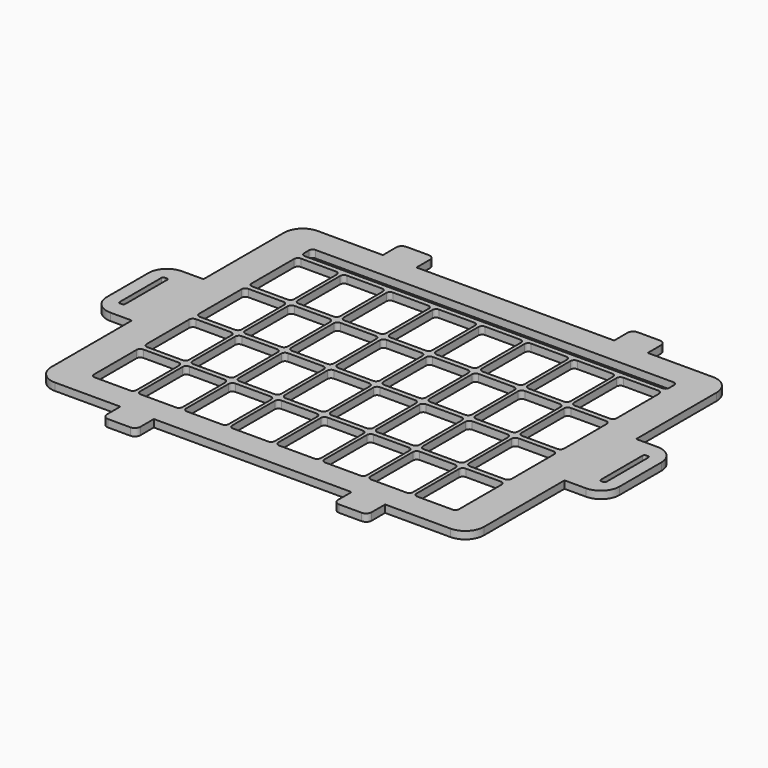
from build123d import *

# Parameters (mm, degrees)
F0_W     = 3
F0_H     = 30
F1_DEPTH = 4
F2_R     = 1
F3_R     = 1
F4_R     = 1
F5_R     = 1
F7_DEPTH = 4


with BuildPart() as f1:
    # F0 (on Top) → F1 (new body)
    with BuildSketch(Plane.XY):
        with BuildLine():
            Line((71, -88), (106, -88))
            ThreePointArc((106, -88), (113.071068, -85.071068), (116, -78))
            Line((116, -78), (116, -24))
            Line((116, -24), (127.5, -24))
            ThreePointArc((127.5, -24), (134.571068, -21.071068), (137.5, -14))
            Line((137.5, -14), (137.5, 14))
            ThreePointArc((137.5, 14), (134.571068, 21.071068), (127.5, 24))
            Line((127.5, 24), (116, 24))
            Line((116, 24), (116, 78))
            ThreePointArc((116, 78), (113.071068, 85.071068), (106, 88))
            Line((106, 88), (71, 88))
            Line((71, 88), (71, 97))
            ThreePointArc((71, 97), (70.12132, 99.12132), (68, 100))
            Line((68, 100), (56, 100))
            ThreePointArc((56, 100), (53.87868, 99.12132), (53, 97))
            Line((53, 97), (53, 88))
            Line((53, 88), (-53, 88))
            Line((-53, 88), (-53, 97))
            ThreePointArc((-53, 97), (-53.87868, 99.12132), (-56, 100))
            Line((-56, 100), (-68, 100))
            ThreePointArc((-68, 100), (-70.12132, 99.12132), (-71, 97))
            Line((-71, 97), (-71, 88))
            Line((-71, 88), (-106, 88))
            ThreePointArc((-106, 88), (-113.071068, 85.071068), (-116, 78))
            Line((-116, 78), (-116, 24))
            Line((-116, 24), (-127.5, 24))
            ThreePointArc((-127.5, 24), (-134.571068, 21.071068), (-137.5, 14))
            Line((-137.5, 14), (-137.5, -14))
            ThreePointArc((-137.5, -14), (-134.571068, -21.071068), (-127.5, -24))
            Line((-127.5, -24), (-116, -24))
            Line((-116, -24), (-116, -78))
            ThreePointArc((-116, -78), (-113.071068, -85.071068), (-106, -88))
            Line((-106, -88), (-71, -88))
            Line((-71, -88), (-71, -97))
            ThreePointArc((-71, -97), (-70.12132, -99.12132), (-68, -100))
            Line((-68, -100), (-56, -100))
            ThreePointArc((-56, -100), (-53.87868, -99.12132), (-53, -97))
            Line((-53, -97), (-53, -88))
            Line((-53, -88), (53, -88))
            Line((53, -88), (53, -97))
            ThreePointArc((53, -97), (53.87868, -99.12132), (56, -100))
            Line((56, -100), (68, -100))
            ThreePointArc((68, -100), (70.12132, -99.12132), (71, -97))
            Line((71, -97), (71, -88))
        make_face()
        Polygon((-127.5, 15), (-127.5, 0), (-127.5, -15), (-130.5, -15), (-130.5, 0), (-130.5, 15), align=None, mode=Mode.SUBTRACT)
        with Locations((129, 0)):
            Rectangle(F0_W, F0_H, mode=Mode.SUBTRACT)
    extrude(amount=F1_DEPTH)

    # F2
    f2_edges = [f1.edges().sort_by_distance(p)[0] for p in [
        (127.5, -15, 2),
        (130.5, -15, 2),
    ]]
    fillet(f2_edges, radius=F2_R)

    # F3
    f3_edges = [f1.edges().sort_by_distance(p)[0] for p in [
        (127.5, 15, 2),
        (130.5, 15, 2),
    ]]
    fillet(f3_edges, radius=F3_R)

    # F4
    f4_edges = [f1.edges().sort_by_distance(p)[0] for p in [
        (-130.5, 15, 2),
        (-127.5, 15, 2),
    ]]
    fillet(f4_edges, radius=F4_R)

    # F5
    f5_edges = [f1.edges().sort_by_distance(p)[0] for p in [
        (-130.5, -15, 2),
        (-127.5, -15, 2),
    ]]
    fillet(f5_edges, radius=F5_R)

    # F6 (on face) → F7 (cut)
    with BuildSketch(Plane.XY.offset(4)):
        with BuildLine():
            ThreePointArc((97.85, 72), (97.264214, 73.414214), (95.85, 74))
            Line((95.85, 74), (-95.85, 74))
            ThreePointArc((-95.85, 74), (-97.264214, 73.414214), (-97.85, 72))
            Line((-97.85, 72), (-97.85, 68.8))
            ThreePointArc((-97.85, 68.8), (-97.264214, 67.385786), (-95.85, 66.8))
            Line((-95.85, 66.8), (95.85, 66.8))
            ThreePointArc((95.85, 66.8), (97.264214, 67.385786), (97.85, 68.8))
            Line((97.85, 68.8), (97.85, 72))
        make_face()
        with BuildLine():
            ThreePointArc((-97.85, -72), (-97.264214, -73.414214), (-95.85, -74))
            Line((-95.85, -74), (-77.05, -74))
            ThreePointArc((-77.05, -74), (-75.635786, -73.414214), (-75.05, -72))
            Line((-75.05, -72), (-75.05, -43.5))
            ThreePointArc((-75.05, -43.5), (-75.635786, -42.085786), (-77.05, -41.5))
            Line((-77.05, -41.5), (-95.85, -41.5))
            ThreePointArc((-95.85, -41.5), (-97.264214, -42.085786), (-97.85, -43.5))
            Line((-97.85, -43.5), (-97.85, -72))
        make_face()
        with BuildLine():
            ThreePointArc((-73.15, -72), (-72.564214, -73.414214), (-71.15, -74))
            Line((-71.15, -74), (-52.35, -74))
            ThreePointArc((-52.35, -74), (-50.935786, -73.414214), (-50.35, -72))
            Line((-50.35, -72), (-50.35, -43.5))
            ThreePointArc((-50.35, -43.5), (-50.935786, -42.085786), (-52.35, -41.5))
            Line((-52.35, -41.5), (-71.15, -41.5))
            ThreePointArc((-71.15, -41.5), (-72.564214, -42.085786), (-73.15, -43.5))
            Line((-73.15, -43.5), (-73.15, -72))
        make_face()
        with BuildLine():
            ThreePointArc((-48.45, -72), (-47.864214, -73.414214), (-46.45, -74))
            Line((-46.45, -74), (-27.65, -74))
            ThreePointArc((-27.65, -74), (-26.235786, -73.414214), (-25.65, -72))
            Line((-25.65, -72), (-25.65, -43.5))
            ThreePointArc((-25.65, -43.5), (-26.235786, -42.085786), (-27.65, -41.5))
            Line((-27.65, -41.5), (-46.45, -41.5))
            ThreePointArc((-46.45, -41.5), (-47.864214, -42.085786), (-48.45, -43.5))
            Line((-48.45, -43.5), (-48.45, -72))
        make_face()
        with BuildLine():
            ThreePointArc((-23.75, -72), (-23.164214, -73.414214), (-21.75, -74))
            Line((-21.75, -74), (-2.95, -74))
            ThreePointArc((-2.95, -74), (-1.535786, -73.414214), (-0.95, -72))
            Line((-0.95, -72), (-0.95, -43.5))
            ThreePointArc((-0.95, -43.5), (-1.535786, -42.085786), (-2.95, -41.5))
            Line((-2.95, -41.5), (-21.75, -41.5))
            ThreePointArc((-21.75, -41.5), (-23.164214, -42.085786), (-23.75, -43.5))
            Line((-23.75, -43.5), (-23.75, -72))
        make_face()
        with BuildLine():
            ThreePointArc((0.95, -72), (1.535786, -73.414214), (2.95, -74))
            Line((2.95, -74), (21.75, -74))
            ThreePointArc((21.75, -74), (23.164214, -73.414214), (23.75, -72))
            Line((23.75, -72), (23.75, -43.5))
            ThreePointArc((23.75, -43.5), (23.164214, -42.085786), (21.75, -41.5))
            Line((21.75, -41.5), (2.95, -41.5))
            ThreePointArc((2.95, -41.5), (1.535786, -42.085786), (0.95, -43.5))
            Line((0.95, -43.5), (0.95, -72))
        make_face()
        with BuildLine():
            ThreePointArc((25.65, -72), (26.235786, -73.414214), (27.65, -74))
            Line((27.65, -74), (46.45, -74))
            ThreePointArc((46.45, -74), (47.864214, -73.414214), (48.45, -72))
            Line((48.45, -72), (48.45, -43.5))
            ThreePointArc((48.45, -43.5), (47.864214, -42.085786), (46.45, -41.5))
            Line((46.45, -41.5), (27.65, -41.5))
            ThreePointArc((27.65, -41.5), (26.235786, -42.085786), (25.65, -43.5))
            Line((25.65, -43.5), (25.65, -72))
        make_face()
        with BuildLine():
            ThreePointArc((50.35, -72), (50.935786, -73.414214), (52.35, -74))
            Line((52.35, -74), (71.15, -74))
            ThreePointArc((71.15, -74), (72.564214, -73.414214), (73.15, -72))
            Line((73.15, -72), (73.15, -43.5))
            ThreePointArc((73.15, -43.5), (72.564214, -42.085786), (71.15, -41.5))
            Line((71.15, -41.5), (52.35, -41.5))
            ThreePointArc((52.35, -41.5), (50.935786, -42.085786), (50.35, -43.5))
            Line((50.35, -43.5), (50.35, -72))
        make_face()
        with BuildLine():
            ThreePointArc((75.05, -72), (75.635786, -73.414214), (77.05, -74))
            Line((77.05, -74), (95.85, -74))
            ThreePointArc((95.85, -74), (97.264214, -73.414214), (97.85, -72))
            Line((97.85, -72), (97.85, -43.5))
            ThreePointArc((97.85, -43.5), (97.264214, -42.085786), (95.85, -41.5))
            Line((95.85, -41.5), (77.05, -41.5))
            ThreePointArc((77.05, -41.5), (75.635786, -42.085786), (75.05, -43.5))
            Line((75.05, -43.5), (75.05, -72))
        make_face()
        with BuildLine():
            ThreePointArc((-27.65, -38.8), (-26.235786, -38.214214), (-25.65, -36.8))
            Line((-25.65, -36.8), (-25.65, -8.3))
            ThreePointArc((-25.65, -8.3), (-26.235786, -6.885786), (-27.65, -6.3))
            Line((-27.65, -6.3), (-46.45, -6.3))
            ThreePointArc((-46.45, -6.3), (-47.864214, -6.885786), (-48.45, -8.3))
            Line((-48.45, -8.3), (-48.45, -36.8))
            ThreePointArc((-48.45, -36.8), (-47.864214, -38.214214), (-46.45, -38.8))
            Line((-46.45, -38.8), (-27.65, -38.8))
        make_face()
        with BuildLine():
            ThreePointArc((-77.05, -38.8), (-75.635786, -38.214214), (-75.05, -36.8))
            Line((-75.05, -36.8), (-75.05, -8.3))
            ThreePointArc((-75.05, -8.3), (-75.635786, -6.885786), (-77.05, -6.3))
            Line((-77.05, -6.3), (-95.85, -6.3))
            ThreePointArc((-95.85, -6.3), (-97.264214, -6.885786), (-97.85, -8.3))
            Line((-97.85, -8.3), (-97.85, -36.8))
            ThreePointArc((-97.85, -36.8), (-97.264214, -38.214214), (-95.85, -38.8))
            Line((-95.85, -38.8), (-77.05, -38.8))
        make_face()
        with BuildLine():
            Line((46.45, -6.3), (27.65, -6.3))
            ThreePointArc((27.65, -6.3), (26.235786, -6.885786), (25.65, -8.3))
            Line((25.65, -8.3), (25.65, -36.8))
            ThreePointArc((25.65, -36.8), (26.235786, -38.214214), (27.65, -38.8))
            Line((27.65, -38.8), (46.45, -38.8))
            ThreePointArc((46.45, -38.8), (47.864214, -38.214214), (48.45, -36.8))
            Line((48.45, -36.8), (48.45, -8.3))
            ThreePointArc((48.45, -8.3), (47.864214, -6.885786), (46.45, -6.3))
        make_face()
        with BuildLine():
            Line((75.05, -8.3), (75.05, -36.8))
            ThreePointArc((75.05, -36.8), (75.635786, -38.214214), (77.05, -38.8))
            Line((77.05, -38.8), (95.85, -38.8))
            ThreePointArc((95.85, -38.8), (97.264214, -38.214214), (97.85, -36.8))
            Line((97.85, -36.8), (97.85, -8.3))
            ThreePointArc((97.85, -8.3), (97.264214, -6.885786), (95.85, -6.3))
            Line((95.85, -6.3), (77.05, -6.3))
            ThreePointArc((77.05, -6.3), (75.635786, -6.885786), (75.05, -8.3))
        make_face()
        with BuildLine():
            ThreePointArc((-23.75, -36.8), (-23.164214, -38.214214), (-21.75, -38.8))
            Line((-21.75, -38.8), (-2.95, -38.8))
            ThreePointArc((-2.95, -38.8), (-1.535786, -38.214214), (-0.95, -36.8))
            Line((-0.95, -36.8), (-0.95, -8.3))
            ThreePointArc((-0.95, -8.3), (-1.535786, -6.885786), (-2.95, -6.3))
            Line((-2.95, -6.3), (-21.75, -6.3))
            ThreePointArc((-21.75, -6.3), (-23.164214, -6.885786), (-23.75, -8.3))
            Line((-23.75, -8.3), (-23.75, -36.8))
        make_face()
        with BuildLine():
            Line((-52.35, -6.3), (-71.15, -6.3))
            ThreePointArc((-71.15, -6.3), (-72.564214, -6.885786), (-73.15, -8.3))
            Line((-73.15, -8.3), (-73.15, -36.8))
            ThreePointArc((-73.15, -36.8), (-72.564214, -38.214214), (-71.15, -38.8))
            Line((-71.15, -38.8), (-52.35, -38.8))
            ThreePointArc((-52.35, -38.8), (-50.935786, -38.214214), (-50.35, -36.8))
            Line((-50.35, -36.8), (-50.35, -8.3))
            ThreePointArc((-50.35, -8.3), (-50.935786, -6.885786), (-52.35, -6.3))
        make_face()
        with BuildLine():
            Line((21.75, -6.3), (2.95, -6.3))
            ThreePointArc((2.95, -6.3), (1.535786, -6.885786), (0.95, -8.3))
            Line((0.95, -8.3), (0.95, -36.8))
            ThreePointArc((0.95, -36.8), (1.535786, -38.214214), (2.95, -38.8))
            Line((2.95, -38.8), (21.75, -38.8))
            ThreePointArc((21.75, -38.8), (23.164214, -38.214214), (23.75, -36.8))
            Line((23.75, -36.8), (23.75, -8.3))
            ThreePointArc((23.75, -8.3), (23.164214, -6.885786), (21.75, -6.3))
        make_face()
        with BuildLine():
            Line((50.35, -8.3), (50.35, -36.8))
            ThreePointArc((50.35, -36.8), (50.935786, -38.214214), (52.35, -38.8))
            Line((52.35, -38.8), (71.15, -38.8))
            ThreePointArc((71.15, -38.8), (72.564214, -38.214214), (73.15, -36.8))
            Line((73.15, -36.8), (73.15, -8.3))
            ThreePointArc((73.15, -8.3), (72.564214, -6.885786), (71.15, -6.3))
            Line((71.15, -6.3), (52.35, -6.3))
            ThreePointArc((52.35, -6.3), (50.935786, -6.885786), (50.35, -8.3))
        make_face()
        with BuildLine():
            ThreePointArc((-27.65, -3.6), (-26.235786, -3.014214), (-25.65, -1.6))
            Line((-25.65, -1.6), (-25.65, 26.9))
            ThreePointArc((-25.65, 26.9), (-26.235786, 28.314214), (-27.65, 28.9))
            Line((-27.65, 28.9), (-46.45, 28.9))
            ThreePointArc((-46.45, 28.9), (-47.864214, 28.314214), (-48.45, 26.9))
            Line((-48.45, 26.9), (-48.45, -1.6))
            ThreePointArc((-48.45, -1.6), (-47.864214, -3.014214), (-46.45, -3.6))
            Line((-46.45, -3.6), (-27.65, -3.6))
        make_face()
        with BuildLine():
            ThreePointArc((-77.05, -3.6), (-75.635786, -3.014214), (-75.05, -1.6))
            Line((-75.05, -1.6), (-75.05, 26.9))
            ThreePointArc((-75.05, 26.9), (-75.635786, 28.314214), (-77.05, 28.9))
            Line((-77.05, 28.9), (-95.85, 28.9))
            ThreePointArc((-95.85, 28.9), (-97.264214, 28.314214), (-97.85, 26.9))
            Line((-97.85, 26.9), (-97.85, -1.6))
            ThreePointArc((-97.85, -1.6), (-97.264214, -3.014214), (-95.85, -3.6))
            Line((-95.85, -3.6), (-77.05, -3.6))
        make_face()
        with BuildLine():
            Line((46.45, 28.9), (27.65, 28.9))
            ThreePointArc((27.65, 28.9), (26.235786, 28.314214), (25.65, 26.9))
            Line((25.65, 26.9), (25.65, -1.6))
            ThreePointArc((25.65, -1.6), (26.235786, -3.014214), (27.65, -3.6))
            Line((27.65, -3.6), (46.45, -3.6))
            ThreePointArc((46.45, -3.6), (47.864214, -3.014214), (48.45, -1.6))
            Line((48.45, -1.6), (48.45, 26.9))
            ThreePointArc((48.45, 26.9), (47.864214, 28.314214), (46.45, 28.9))
        make_face()
        with BuildLine():
            Line((75.05, 26.9), (75.05, -1.6))
            ThreePointArc((75.05, -1.6), (75.635786, -3.014214), (77.05, -3.6))
            Line((77.05, -3.6), (95.85, -3.6))
            ThreePointArc((95.85, -3.6), (97.264214, -3.014214), (97.85, -1.6))
            Line((97.85, -1.6), (97.85, 26.9))
            ThreePointArc((97.85, 26.9), (97.264214, 28.314214), (95.85, 28.9))
            Line((95.85, 28.9), (77.05, 28.9))
            ThreePointArc((77.05, 28.9), (75.635786, 28.314214), (75.05, 26.9))
        make_face()
        with BuildLine():
            ThreePointArc((-23.75, -1.6), (-23.164214, -3.014214), (-21.75, -3.6))
            Line((-21.75, -3.6), (-2.95, -3.6))
            ThreePointArc((-2.95, -3.6), (-1.535786, -3.014214), (-0.95, -1.6))
            Line((-0.95, -1.6), (-0.95, 26.9))
            ThreePointArc((-0.95, 26.9), (-1.535786, 28.314214), (-2.95, 28.9))
            Line((-2.95, 28.9), (-21.75, 28.9))
            ThreePointArc((-21.75, 28.9), (-23.164214, 28.314214), (-23.75, 26.9))
            Line((-23.75, 26.9), (-23.75, -1.6))
        make_face()
        with BuildLine():
            Line((-52.35, 28.9), (-71.15, 28.9))
            ThreePointArc((-71.15, 28.9), (-72.564214, 28.314214), (-73.15, 26.9))
            Line((-73.15, 26.9), (-73.15, -1.6))
            ThreePointArc((-73.15, -1.6), (-72.564214, -3.014214), (-71.15, -3.6))
            Line((-71.15, -3.6), (-52.35, -3.6))
            ThreePointArc((-52.35, -3.6), (-50.935786, -3.014214), (-50.35, -1.6))
            Line((-50.35, -1.6), (-50.35, 26.9))
            ThreePointArc((-50.35, 26.9), (-50.935786, 28.314214), (-52.35, 28.9))
        make_face()
        with BuildLine():
            Line((21.75, 28.9), (2.95, 28.9))
            ThreePointArc((2.95, 28.9), (1.535786, 28.314214), (0.95, 26.9))
            Line((0.95, 26.9), (0.95, -1.6))
            ThreePointArc((0.95, -1.6), (1.535786, -3.014214), (2.95, -3.6))
            Line((2.95, -3.6), (21.75, -3.6))
            ThreePointArc((21.75, -3.6), (23.164214, -3.014214), (23.75, -1.6))
            Line((23.75, -1.6), (23.75, 26.9))
            ThreePointArc((23.75, 26.9), (23.164214, 28.314214), (21.75, 28.9))
        make_face()
        with BuildLine():
            Line((50.35, 26.9), (50.35, -1.6))
            ThreePointArc((50.35, -1.6), (50.935786, -3.014214), (52.35, -3.6))
            Line((52.35, -3.6), (71.15, -3.6))
            ThreePointArc((71.15, -3.6), (72.564214, -3.014214), (73.15, -1.6))
            Line((73.15, -1.6), (73.15, 26.9))
            ThreePointArc((73.15, 26.9), (72.564214, 28.314214), (71.15, 28.9))
            Line((71.15, 28.9), (52.35, 28.9))
            ThreePointArc((52.35, 28.9), (50.935786, 28.314214), (50.35, 26.9))
        make_face()
        with BuildLine():
            ThreePointArc((-27.65, 31.6), (-26.235786, 32.185786), (-25.65, 33.6))
            Line((-25.65, 33.6), (-25.65, 62.1))
            ThreePointArc((-25.65, 62.1), (-26.235786, 63.514214), (-27.65, 64.1))
            Line((-27.65, 64.1), (-46.45, 64.1))
            ThreePointArc((-46.45, 64.1), (-47.864214, 63.514214), (-48.45, 62.1))
            Line((-48.45, 62.1), (-48.45, 33.6))
            ThreePointArc((-48.45, 33.6), (-47.864214, 32.185786), (-46.45, 31.6))
            Line((-46.45, 31.6), (-27.65, 31.6))
        make_face()
        with BuildLine():
            ThreePointArc((-77.05, 31.6), (-75.635786, 32.185786), (-75.05, 33.6))
            Line((-75.05, 33.6), (-75.05, 62.1))
            ThreePointArc((-75.05, 62.1), (-75.635786, 63.514214), (-77.05, 64.1))
            Line((-77.05, 64.1), (-95.85, 64.1))
            ThreePointArc((-95.85, 64.1), (-97.264214, 63.514214), (-97.85, 62.1))
            Line((-97.85, 62.1), (-97.85, 33.6))
            ThreePointArc((-97.85, 33.6), (-97.264214, 32.185786), (-95.85, 31.6))
            Line((-95.85, 31.6), (-77.05, 31.6))
        make_face()
        with BuildLine():
            Line((46.45, 64.1), (27.65, 64.1))
            ThreePointArc((27.65, 64.1), (26.235786, 63.514214), (25.65, 62.1))
            Line((25.65, 62.1), (25.65, 33.6))
            ThreePointArc((25.65, 33.6), (26.235786, 32.185786), (27.65, 31.6))
            Line((27.65, 31.6), (46.45, 31.6))
            ThreePointArc((46.45, 31.6), (47.864214, 32.185786), (48.45, 33.6))
            Line((48.45, 33.6), (48.45, 62.1))
            ThreePointArc((48.45, 62.1), (47.864214, 63.514214), (46.45, 64.1))
        make_face()
        with BuildLine():
            Line((75.05, 62.1), (75.05, 33.6))
            ThreePointArc((75.05, 33.6), (75.635786, 32.185786), (77.05, 31.6))
            Line((77.05, 31.6), (95.85, 31.6))
            ThreePointArc((95.85, 31.6), (97.264214, 32.185786), (97.85, 33.6))
            Line((97.85, 33.6), (97.85, 62.1))
            ThreePointArc((97.85, 62.1), (97.264214, 63.514214), (95.85, 64.1))
            Line((95.85, 64.1), (77.05, 64.1))
            ThreePointArc((77.05, 64.1), (75.635786, 63.514214), (75.05, 62.1))
        make_face()
        with BuildLine():
            ThreePointArc((-23.75, 33.6), (-23.164214, 32.185786), (-21.75, 31.6))
            Line((-21.75, 31.6), (-2.95, 31.6))
            ThreePointArc((-2.95, 31.6), (-1.535786, 32.185786), (-0.95, 33.6))
            Line((-0.95, 33.6), (-0.95, 62.1))
            ThreePointArc((-0.95, 62.1), (-1.535786, 63.514214), (-2.95, 64.1))
            Line((-2.95, 64.1), (-21.75, 64.1))
            ThreePointArc((-21.75, 64.1), (-23.164214, 63.514214), (-23.75, 62.1))
            Line((-23.75, 62.1), (-23.75, 33.6))
        make_face()
        with BuildLine():
            Line((-52.35, 64.1), (-71.15, 64.1))
            ThreePointArc((-71.15, 64.1), (-72.564214, 63.514214), (-73.15, 62.1))
            Line((-73.15, 62.1), (-73.15, 33.6))
            ThreePointArc((-73.15, 33.6), (-72.564214, 32.185786), (-71.15, 31.6))
            Line((-71.15, 31.6), (-52.35, 31.6))
            ThreePointArc((-52.35, 31.6), (-50.935786, 32.185786), (-50.35, 33.6))
            Line((-50.35, 33.6), (-50.35, 62.1))
            ThreePointArc((-50.35, 62.1), (-50.935786, 63.514214), (-52.35, 64.1))
        make_face()
        with BuildLine():
            Line((21.75, 64.1), (2.95, 64.1))
            ThreePointArc((2.95, 64.1), (1.535786, 63.514214), (0.95, 62.1))
            Line((0.95, 62.1), (0.95, 33.6))
            ThreePointArc((0.95, 33.6), (1.535786, 32.185786), (2.95, 31.6))
            Line((2.95, 31.6), (21.75, 31.6))
            ThreePointArc((21.75, 31.6), (23.164214, 32.185786), (23.75, 33.6))
            Line((23.75, 33.6), (23.75, 62.1))
            ThreePointArc((23.75, 62.1), (23.164214, 63.514214), (21.75, 64.1))
        make_face()
        with BuildLine():
            Line((50.35, 62.1), (50.35, 33.6))
            ThreePointArc((50.35, 33.6), (50.935786, 32.185786), (52.35, 31.6))
            Line((52.35, 31.6), (71.15, 31.6))
            ThreePointArc((71.15, 31.6), (72.564214, 32.185786), (73.15, 33.6))
            Line((73.15, 33.6), (73.15, 62.1))
            ThreePointArc((73.15, 62.1), (72.564214, 63.514214), (71.15, 64.1))
            Line((71.15, 64.1), (52.35, 64.1))
            ThreePointArc((52.35, 64.1), (50.935786, 63.514214), (50.35, 62.1))
        make_face()
    extrude(amount=-F7_DEPTH, mode=Mode.SUBTRACT)


solid = f1.part
